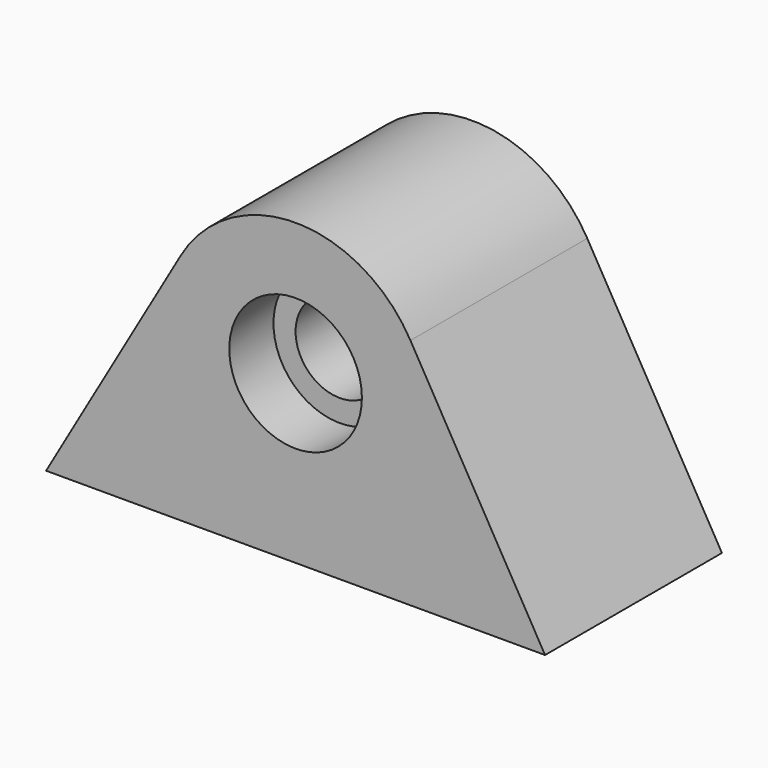
from build123d import *

# Parameters (mm, degrees)
SKETCH012_R     = 2
PAD010_DEPTH    = 10
SKETCH013_R     = 3
POCKET_DEPTH    = 2.5
SKETCH014_R     = 3
POCKET001_DEPTH = 2.5


with BuildPart() as part:
    # Sketch012 → Pad010 (new body)
    with BuildSketch(Plane.XZ.offset(-20)):
        with BuildLine():
            Line((-11.287198, -7.55), (-5.196164, 2.99998))
            ThreePointArc((5.196164, 2.99998), (0, 6), (-5.196164, 2.99998))
            Line((5.196164, 2.99998), (11.287198, -7.55))
            Line((11.287198, -7.55), (-11.287198, -7.55))
        make_face()
        Circle(SKETCH012_R, mode=Mode.SUBTRACT)
    extrude(amount=PAD010_DEPTH)

    # Sketch013 → Pocket (cut)
    with BuildSketch(Plane.XZ.offset(-10)):
        Circle(SKETCH013_R)
    extrude(amount=-POCKET_DEPTH, mode=Mode.SUBTRACT)

    # Sketch014 → Pocket001 (cut)
    with BuildSketch(Plane(origin=(0, 20, 0), x_dir=(1, 0, 0), z_dir=(0, 1, 0))):
        Circle(SKETCH014_R)
    extrude(amount=-POCKET001_DEPTH, mode=Mode.SUBTRACT)


solid = part.part
